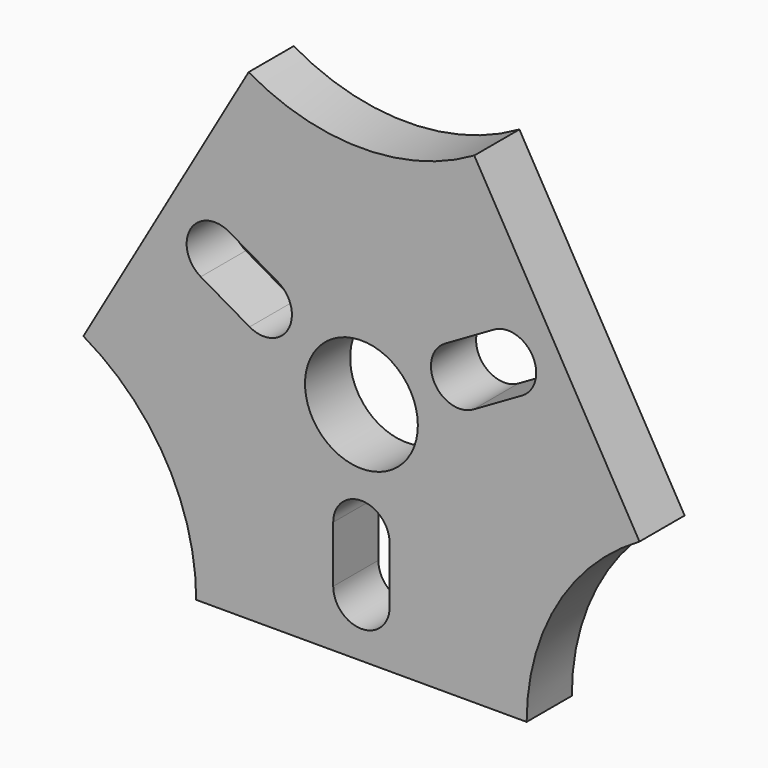
from build123d import *

# Parameters (mm, degrees)
F0_R     = 6.35
F1_DEPTH = 6.35
F3_DEPTH = 25.4


with BuildPart() as f1:
    # F0 (on Front) → F1 (new body)
    with BuildSketch(Plane.XZ):
        with BuildLine():
            Line((-18.594091, -25.4), (18.594091, -25.4))
            ThreePointArc((18.594091, -25.4), (21.997045, -12.7), (31.294091, -3.402955))
            Line((31.294091, -3.402955), (12.7, 28.802955))
            ThreePointArc((12.7, 28.802955), (0, 25.4), (-12.7, 28.802955))
            Line((-12.7, 28.802955), (-31.294091, -3.402955))
            ThreePointArc((-31.294091, -3.402955), (-21.997045, -12.7), (-18.594091, -25.4))
        make_face()
        Circle(F0_R, mode=Mode.SUBTRACT)
    extrude(amount=F1_DEPTH)

    # F2 (on Front) → F3 (cut)
    with BuildSketch(Plane.XZ):
        with BuildLine():
            Line((-3.175, -12.7), (-3.175, -19.05))
            ThreePointArc((-3.175, -19.05), (0, -22.225), (3.175, -19.05))
            Line((3.175, -19.05), (3.175, -12.7))
            ThreePointArc((3.175, -12.7), (0, -9.525), (-3.175, -12.7))
        make_face()
        with BuildLine():
            Line((-18.085284, 6.775369), (-12.586023, 3.600369))
            ThreePointArc((-12.586023, 3.600369), (-8.248892, 4.7625), (-9.411023, 9.099631))
            Line((-9.411023, 9.099631), (-14.910284, 12.274631))
            ThreePointArc((-14.910284, 12.274631), (-19.247415, 11.1125), (-18.085284, 6.775369))
        make_face()
        with BuildLine():
            Line((14.910284, 12.274631), (9.411023, 9.099631))
            ThreePointArc((9.411023, 9.099631), (8.248892, 4.7625), (12.586023, 3.600369))
            Line((12.586023, 3.600369), (18.085284, 6.775369))
            ThreePointArc((18.085284, 6.775369), (19.247415, 11.1125), (14.910284, 12.274631))
        make_face()
    extrude(amount=F3_DEPTH, mode=Mode.SUBTRACT)


solid = f1.part
